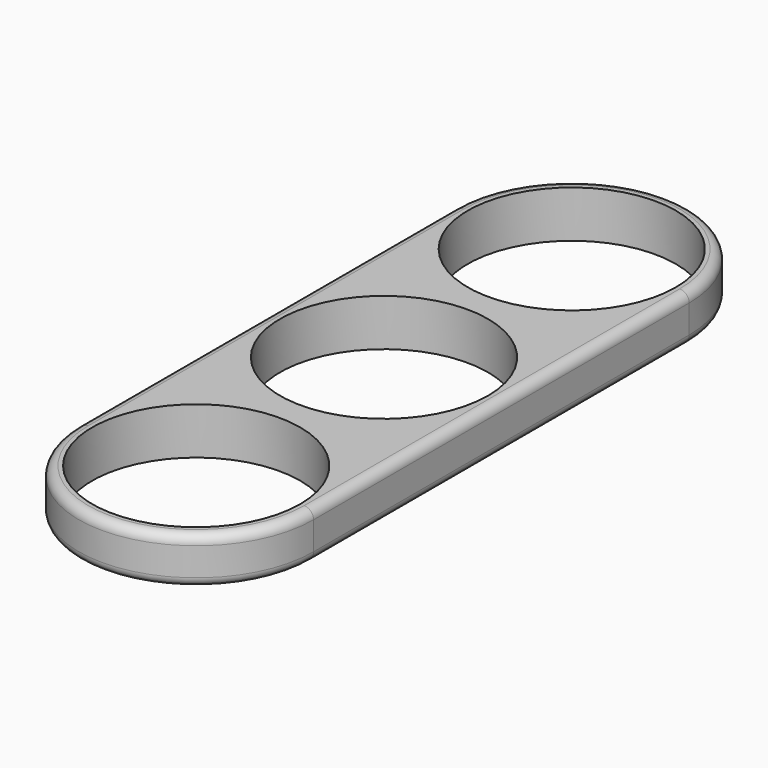
from build123d import *

# Parameters (mm, degrees)
F1_DEPTH = 5
F2_R     = 11.075
F3_DEPTH = 25
F4_R     = 1


with BuildPart() as f1:
    # F0 (on Top) → F1 (new body)
    with BuildSketch(Plane.XY):
        with BuildLine():
            ThreePointArc((-12.5, -25), (0, -37.5), (12.5, -25))
            Line((12.5, -25), (-12.5, -25))
        make_face()
        with BuildLine():
            Line((-12.5, 25), (12.5, 25))
            ThreePointArc((12.5, 25), (0, 37.5), (-12.5, 25))
        make_face()
        with BuildLine():
            Line((12.5, -25), (12.5, 0))
            ThreePointArc((12.5, 0), (8.838835, -8.838835), (0, -12.5))
            ThreePointArc((0, -12.5), (8.838835, -16.161165), (12.5, -25))
        make_face()
        with BuildLine():
            ThreePointArc((-12.5, -25), (-8.838835, -16.161165), (0, -12.5))
            ThreePointArc((0, -12.5), (-8.838835, -8.838835), (-12.5, 0))
            Line((-12.5, 0), (-12.5, -25))
        make_face()
        with BuildLine():
            ThreePointArc((-12.5, 0), (-8.838835, 8.838835), (0, 12.5))
            ThreePointArc((0, 12.5), (-8.838835, 16.161165), (-12.5, 25))
            Line((-12.5, 25), (-12.5, 0))
        make_face()
        with BuildLine():
            ThreePointArc((0, 12.5), (8.838835, 8.838835), (12.5, 0))
            Line((12.5, 0), (12.5, 25))
            ThreePointArc((12.5, 25), (8.838835, 16.161165), (0, 12.5))
        make_face()
        with BuildLine():
            ThreePointArc((-12.5, 25), (-8.838835, 16.161165), (0, 12.5))
            ThreePointArc((0, 12.5), (8.838835, 16.161165), (12.5, 25))
            Line((12.5, 25), (-12.5, 25))
        make_face()
        with BuildLine():
            ThreePointArc((12.5, -25), (8.838835, -16.161165), (0, -12.5))
            ThreePointArc((0, -12.5), (-8.838835, -16.161165), (-12.5, -25))
            Line((-12.5, -25), (12.5, -25))
        make_face()
        with BuildLine():
            ThreePointArc((0, -12.5), (8.838835, -8.838835), (12.5, 0))
            ThreePointArc((12.5, 0), (8.838835, 8.838835), (0, 12.5))
            ThreePointArc((0, 12.5), (-8.838835, 8.838835), (-12.5, 0))
            ThreePointArc((-12.5, 0), (-8.838835, -8.838835), (0, -12.5))
        make_face()
    extrude(amount=F1_DEPTH)

    # F2 (on face) → F3 (cut)
    with BuildSketch(Plane.XY.offset(5)):
        with Locations((0, 25)):
            Circle(F2_R)
        Circle(F2_R)
        with Locations((0, -25)):
            Circle(F2_R)
    extrude(amount=-F3_DEPTH, mode=Mode.SUBTRACT)

    # F4
    f4_edges = [f1.edges().sort_by_distance(p)[0] for p in [
        (12.5, 0, 5),
        (0, 37.5, 5),
        (-12.5, 0, 5),
        (-12.5, -25, 2.5),
        (-12.5, 0, 0),
        (-12.5, 25, 2.5),
        (12.5, 0, 0),
    ]]
    fillet(f4_edges, radius=F4_R)


solid = f1.part
